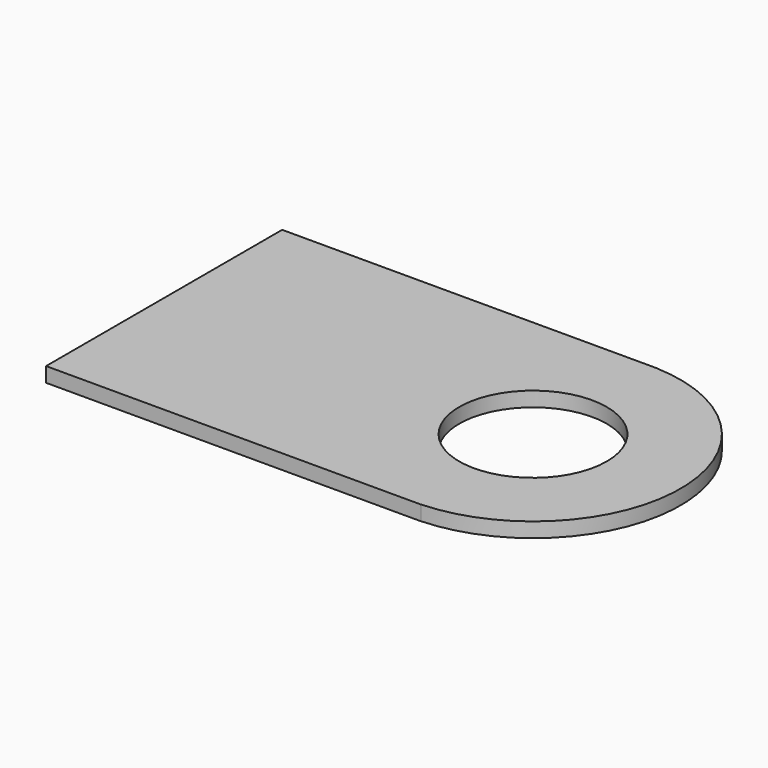
from build123d import *

# Parameters (mm, degrees)
CYLINDER041_R     = 0.5
CYLINDER041_DEPTH = 0.1
BOX016_W          = 2.54
BOX016_H          = 2
BOX016_DEPTH      = 0.1
CYLINDER040_R     = 0.5
CYLINDER040_DEPTH = 0.1
CYLINDER039_R     = 1
CYLINDER039_DEPTH = 0.1


with BuildPart() as cylinder041:
    # Cylinder041 → Cylinder041 (new body)
    with BuildSketch(Plane.XY.offset(1)):
        Circle(CYLINDER041_R)
    extrude(amount=CYLINDER041_DEPTH)


with BuildPart() as cut028:
    # Box016 → Box016 (new body)
    with BuildSketch(Plane(origin=(-2.5, -1, 1), x_dir=(1, 0, 0), z_dir=(0, 0, 1))):
        with Locations((1.27, 1)):
            Rectangle(BOX016_W, BOX016_H)
    extrude(amount=BOX016_DEPTH)

    # Cut028: cut Cylinder041
    add(cylinder041.part, mode=Mode.SUBTRACT)


with BuildPart() as cylinder040:
    # Cylinder040 → Cylinder040 (new body)
    with BuildSketch(Plane.XY.offset(1)):
        Circle(CYLINDER040_R)
    extrude(amount=CYLINDER040_DEPTH)


with BuildPart() as fusion013:
    # Cylinder039 → Cylinder039 (new body)
    with BuildSketch(Plane.XY.offset(1)):
        Circle(CYLINDER039_R)
    extrude(amount=CYLINDER039_DEPTH)

    # Cut027: cut Cylinder040
    add(cylinder040.part, mode=Mode.SUBTRACT)

    # Fusion013: union Cut028
    add(cut028.part)


with BuildPart() as fusion013_1:
    # Fusion013 placement: moved
    add(fusion013.part.moved(Location((0, -33.02, 5.5))))


solid = fusion013_1.part
